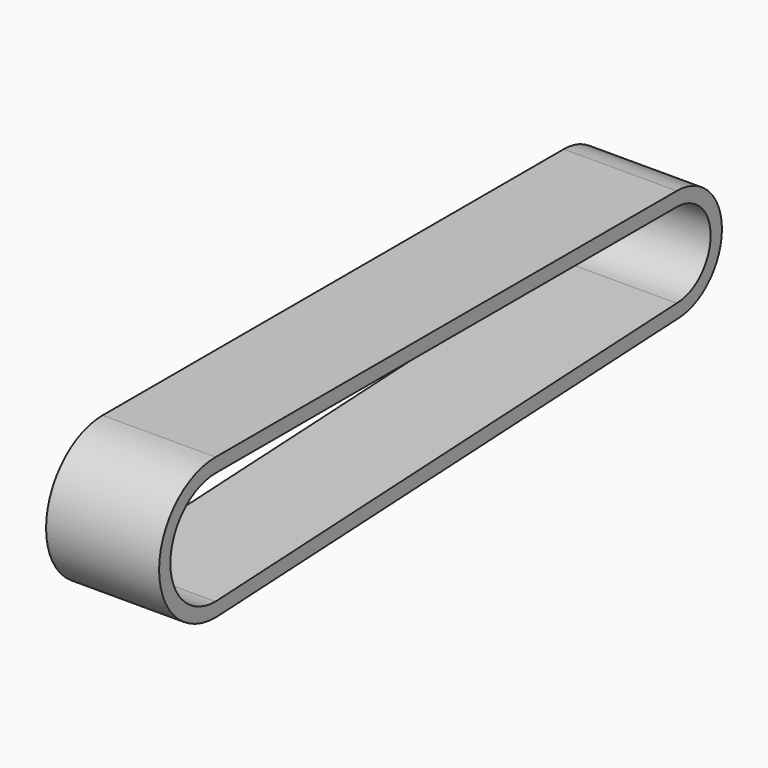
from build123d import *

# Parameters (mm, degrees)
F0_W     = 50.8
F0_H     = 6.35
F1_DEPTH = 259.08
F2_W     = 50.8
F2_H     = 6.35
F3_ANGLE = -180
F4_W     = 50.8
F4_H     = 6.35
F5_ANGLE = 180
F7_DEPTH = 50.8


with BuildPart() as f1:
    # F0 (on Front) → F1 (new body)
    with BuildSketch(Plane.XZ):
        with Locations((-25.4, 3.175)):
            Rectangle(F0_W, F0_H)
    extrude(amount=F1_DEPTH)

    # F2 (on face) → F3 (revolve)
    with BuildSketch(Plane.XZ.offset(259.08)):
        with Locations((-25.4, 3.175)):
            Rectangle(F2_W, F2_H)
    revolve(axis=Axis((-25.4, -259.08, -25.4), (-1, 0, 0)), revolution_arc=F3_ANGLE)

    # F4 (on face) → F5 (revolve)
    with BuildSketch(Plane(origin=(0, 0, 0), x_dir=(-1, 0, 0), z_dir=(0, 1, 0))):
        with Locations((25.4, 3.175)):
            Rectangle(F4_W, F4_H)
    revolve(axis=Axis((-31.75, 0, -19.05), (-1, 0, 0)), revolution_arc=F5_ANGLE)

    # F6 (on face) → F7 (join)
    with BuildSketch(Plane(origin=(-50.8, 0, 0), x_dir=(0, -1, 0), z_dir=(-1, 0, 0))):
        Polygon((259.08, -50.8), (0, -38.1), (0, -44.45), (259.08, -57.15), align=None)
    extrude(amount=-F7_DEPTH)


solid = f1.part
